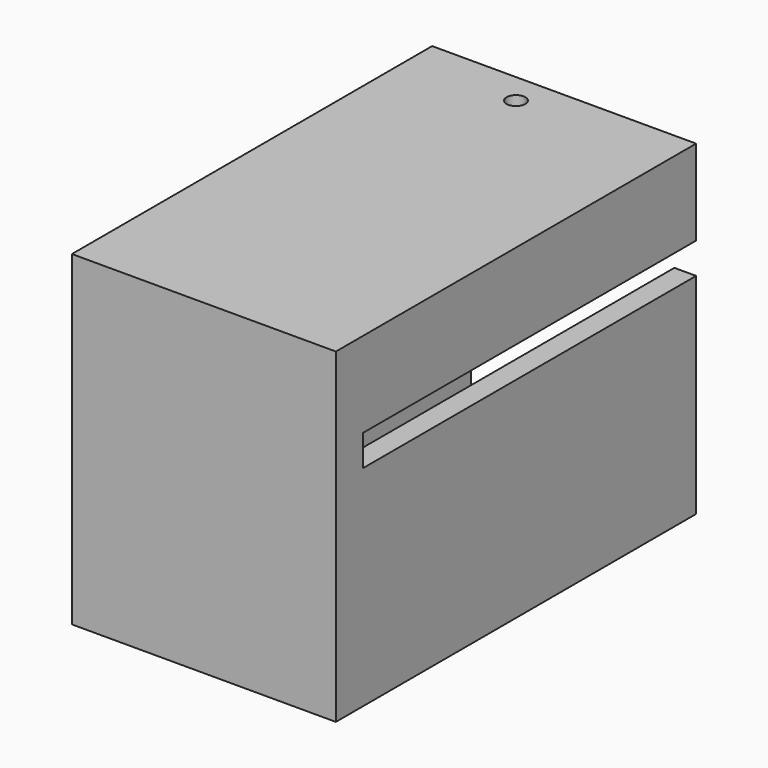
from build123d import *

# Parameters (mm, degrees)
SKETCH227_W     = 17
SKETCH227_H     = 21
PAD145_DEPTH    = 29
SKETCH223_W     = 13.1
SKETCH223_H     = 17
POCKET017_DEPTH = 25.7
SKETCH224_W     = 11.5
SKETCH224_H     = 1.2
SKETCH224_W_2   = 1.4
SKETCH224_H_2   = 2
POCKET018_DEPTH = 26.8
SKETCH197_R     = 0.6
POCKET019_DEPTH = 50
SKETCH203_W     = 0.6
SKETCH203_H     = 3
POCKET020_DEPTH = 2.5


with BuildPart() as part:
    # Sketch227 → Pad145 (new body)
    with BuildSketch(Plane.XZ):
        with Locations((1.5, 2)):
            Rectangle(SKETCH227_W, SKETCH227_H)
    extrude(amount=PAD145_DEPTH)

    # Sketch223 (on Face5 of Pad145) → Pocket017 (cut)
    with BuildSketch(Plane(origin=(0, 0, 0), x_dir=(1, 0, 0), z_dir=(0, 1, 0))):
        with Locations((2.05, -2)):
            Rectangle(SKETCH223_W, SKETCH223_H)
    extrude(amount=-POCKET017_DEPTH, mode=Mode.SUBTRACT)

    # Sketch224 (on Face4 of Pocket017) → Pocket018 (cut)
    with BuildSketch(Plane(origin=(0, 0, 0), x_dir=(1, 0, 0), z_dir=(0, 1, 0))):
        Rectangle(SKETCH224_W, SKETCH224_H)
        with Locations((9.3, -6)):
            Rectangle(SKETCH224_W_2, SKETCH224_H_2)
    extrude(amount=-POCKET018_DEPTH, mode=Mode.SUBTRACT)

    # Sketch197 (on Face6 of Pocket018) → Pocket019 (cut)
    with BuildSketch(Plane(origin=(0, 0, -8.5), x_dir=(1, 0, 0), z_dir=(0, 0, -1))):
        with Locations((0, 2)):
            Circle(SKETCH197_R)
    extrude(amount=-POCKET019_DEPTH, mode=Mode.SUBTRACT)

    # Sketch203 (on Face21 of Pocket019) → Pocket020 (cut)
    with BuildSketch(Plane(origin=(8.6, 0, 0), x_dir=(0, 0, 1), z_dir=(1, 0, 0))):
        with Locations((0, -9)):
            Rectangle(SKETCH203_W, SKETCH203_H)
    extrude(amount=-POCKET020_DEPTH, mode=Mode.SUBTRACT)


solid = part.part
